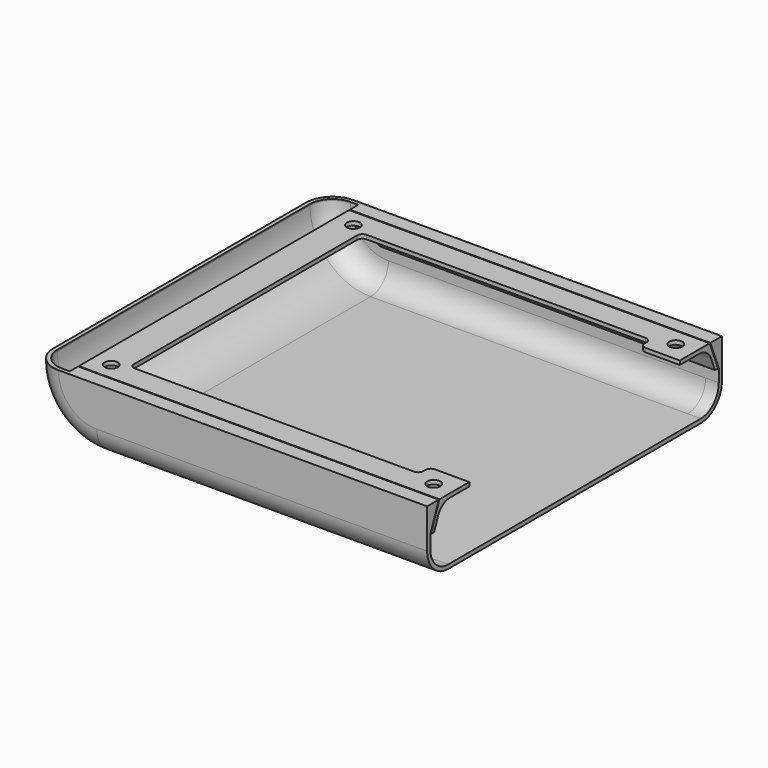
from build123d import *

# Parameters (mm, degrees)
PAD_DEPTH       = 70
FILLET_R        = 10
THICKNESS_T     = -1.5
SKETCH001_W     = 120
SKETCH001_H     = 25
POCKET_DEPTH    = 5
POCKET001_DEPTH = 5
PAD001_DEPTH    = 137
PAD002_DEPTH    = 137
POCKET002_DEPTH = 31
SKETCH007_R     = 2.5
POCKET003_DEPTH = 30
POCKET004_DEPTH = 100


with BuildPart() as body:
    # Sketch (on XZ_Plane of Origin) → Pad (new body, symmetric)
    with BuildSketch(Plane.XZ):
        with BuildLine():
            Line((0, 0), (0, 25))
            Line((0, 25), (-150, 25))
            Line((-150, 25), (-150, 24.5))
            ThreePointArc((-150, 24.5), (-142.824116, 7.175884), (-125.5, 0))
            Line((-125.5, 0), (0, 0))
        make_face()
    extrude(amount=PAD_DEPTH, both=True)

    # Fillet
    fillet_edges = [body.edges().sort_by_distance(p)[0] for p in [
        (-62.75, -70, 0),
        (-62.75, 70, 0),
    ]]
    fillet(fillet_edges, radius=FILLET_R)

    # Thickness
    thickness_openings = [body.faces().sort_by_distance(p)[0] for p in [
        (-74.850974, 0, 25),
    ]]
    offset(amount=THICKNESS_T, openings=thickness_openings)

    # Sketch001 → Pocket (cut)
    with BuildSketch(Plane.YZ):
        with Locations((0, 14)):
            Rectangle(SKETCH001_W, SKETCH001_H)
    extrude(amount=-POCKET_DEPTH, mode=Mode.SUBTRACT)

    # Sketch002 (on YZ_Plane of Origin) → Pocket001 (cut)
    with BuildSketch(Plane.YZ):
        with BuildLine():
            Line((-68.5, 26.5), (-68.5, 10))
            ThreePointArc((-68.5, 10), (-66.010408, 3.989592), (-60, 1.5))
            Line((-60, 1.5), (60, 1.5))
            ThreePointArc((60, 1.5), (66.010408, 3.989592), (68.5, 10))
            Line((68.5, 10), (68.5, 26.5))
            Line((68.5, 26.5), (-68.5, 26.5))
        make_face()
    extrude(amount=-POCKET001_DEPTH, mode=Mode.SUBTRACT)

    # Sketch004 → Pad001 (join)
    with BuildSketch(Plane.YZ):
        Polygon((-68.5, 25), (-64.5, 25), (-68.5, 15), align=None)
        Polygon((64.5, 25), (68.5, 25), (68.5, 15), align=None)
    extrude(amount=-PAD001_DEPTH)


with BuildPart() as mount:
    # Sketch005 (on YZ_Plane001 of Origin002) → Pad002 (new body)
    with BuildSketch(Plane.YZ):
        with BuildLine():
            Line((-68.2, 15), (-64.2, 25))
            Line((-64.2, 25), (-54.2, 25))
            Line((-54.2, 25), (54.2, 25))
            Line((54.2, 25), (64.2, 25))
            Line((64.2, 25), (68.2, 15))
            Line((68.2, 15), (66.7, 15))
            Line((66.7, 15), (64.822702, 19.693246))
            ThreePointArc((64.822702, 19.693246), (62.595076, 22.458803), (59.2, 23.5))
            Line((59.2, 23.5), (54.2, 23.5))
            Line((-54.2, 23.5), (54.2, 23.5))
            Line((-54.2, 23.5), (-59.2, 23.5))
            ThreePointArc((-59.2, 23.5), (-62.595076, 22.458803), (-64.822702, 19.693246))
            Line((-66.7, 15), (-64.822702, 19.693246))
            Line((-68.2, 15), (-66.7, 15))
        make_face()
    extrude(amount=-PAD002_DEPTH)

    # Sketch006 (on XY_Plane001 of Origin002) → Pocket002 (cut)
    with BuildSketch(Plane.XY):
        with BuildLine():
            Line((-17, 55), (-123, 55))
            ThreePointArc((-123, 55), (-124.414214, 54.414214), (-125, 53))
            Line((-125, 53), (-125, -53))
            ThreePointArc((-125, -53), (-124.414214, -54.414214), (-123, -55))
            Line((-123, -55), (-17, -55))
            ThreePointArc((-17, -55), (-15.585786, -54.414214), (-15, -53))
            Line((-15, -53), (-15, -52))
            ThreePointArc((-13, -50), (-14.414214, -50.585786), (-15, -52))
            Line((-13, -50), (0, -50))
            Line((0, -50), (0, 50))
            Line((-13, 50), (0, 50))
            ThreePointArc((-15, 52), (-14.414214, 50.585786), (-13, 50))
            Line((-15, 53), (-15, 52))
            ThreePointArc((-15, 53), (-15.585786, 54.414214), (-17, 55))
        make_face()
    extrude(amount=POCKET002_DEPTH, mode=Mode.SUBTRACT)

    # Sketch007 (on XY_Plane001 of Origin002) → Pocket003 (cut)
    with BuildSketch(Plane.XY):
        with Locations((-7.5, 57.5)):
            Circle(SKETCH007_R)
        with Locations((-130, 57.5)):
            Circle(SKETCH007_R)
        with Locations((-7.5, -57.5)):
            Circle(SKETCH007_R)
        with Locations((-130, -57.5)):
            Circle(SKETCH007_R)
    extrude(amount=POCKET003_DEPTH, mode=Mode.SUBTRACT)

    # Sketch008 (on XZ_Plane001 of Origin002) → Pocket004 (cut, symmetric)
    with BuildSketch(Plane.XZ):
        Polygon((-137.213166, 23.638279), (-139.775239, 10.189935), (-126.847595, 14.695286), align=None)
    extrude(amount=POCKET004_DEPTH, both=True, mode=Mode.SUBTRACT)


solid = Compound([body.part, mount.part])
